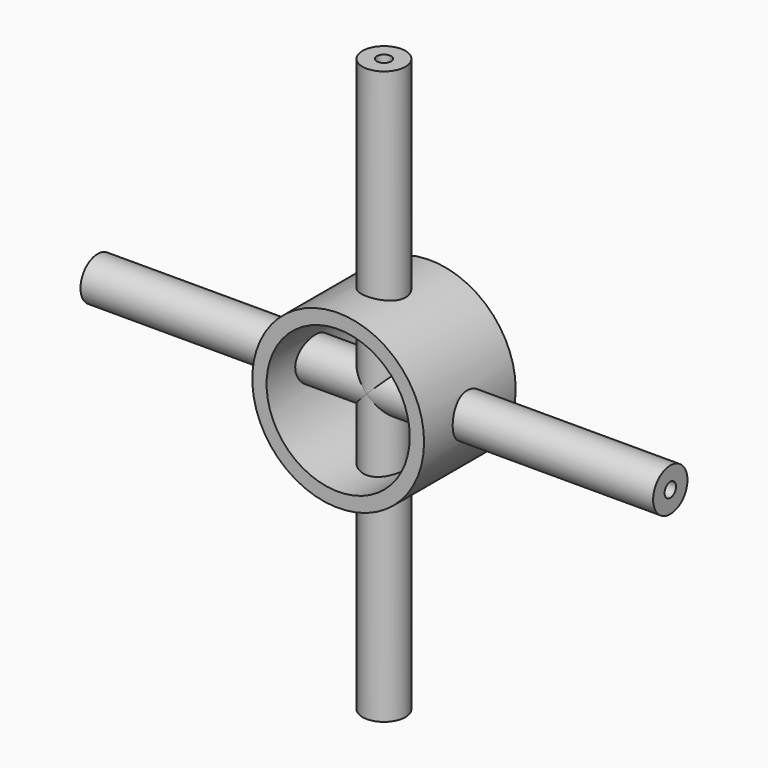
from build123d import *

# Parameters (mm, degrees)
F0_R     = 30
F0_R_2   = 25
F1_DEPTH = 20
F2_R     = 7.5
F2_R_2   = 2.5
F3_DEPTH = 100
F4_R     = 7.5
F4_R_2   = 2.5
F5_DEPTH = 100


with BuildPart() as f1:
    # F0 (on Front) → F1 (new body, symmetric)
    with BuildSketch(Plane.XZ):
        Circle(F0_R)
        Circle(F0_R_2, mode=Mode.SUBTRACT)
    extrude(amount=F1_DEPTH, both=True)

    # F2 (on Top) → F3 (join, symmetric)
    with BuildSketch(Plane.XY):
        Circle(F2_R)
        Circle(F2_R_2, mode=Mode.SUBTRACT)
    extrude(amount=F3_DEPTH, both=True)

    # F4 (on Right) → F5 (join, symmetric)
    with BuildSketch(Plane.YZ):
        Circle(F4_R)
        Circle(F4_R_2, mode=Mode.SUBTRACT)
    extrude(amount=F5_DEPTH, both=True)


solid = f1.part
